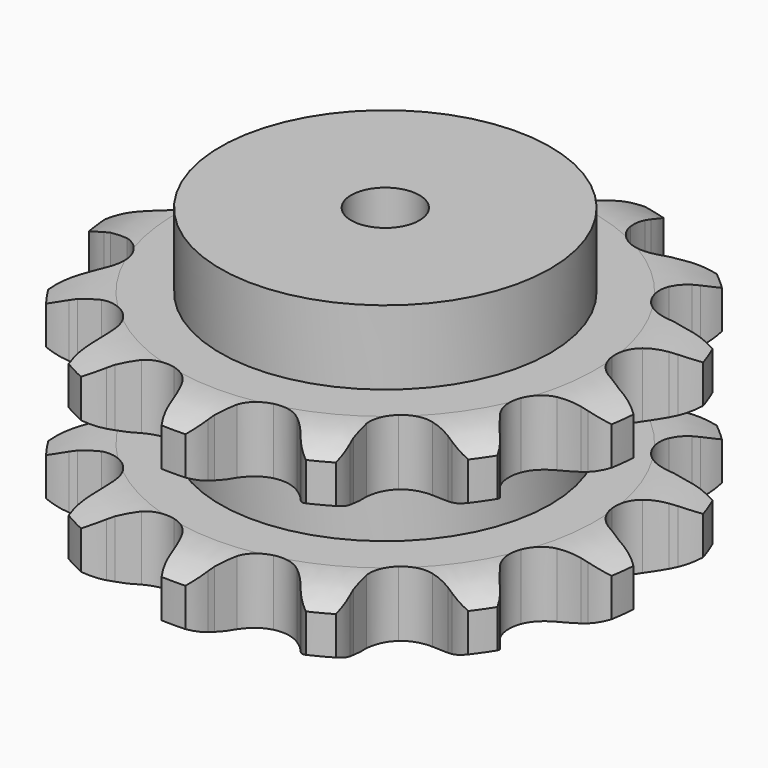
from build123d import *

# Parameters (mm, degrees)
PAD_DEPTH         = 87.4
SKETCH001_R       = 72.5
PAD001_DEPTH      = 120
SKETCH002_R       = 15
POCKET_DEPTH      = 0.001
POCKET_DEPTH_BACK = 120.001


with BuildPart() as part:
    # Sprocket → Pad (new body)
    with BuildSketch(Plane.XY):
        with BuildLine():
            ThreePointArc((-29.237321, 118.620475), (-22.418601, 113.86351), (-17.573083, 107.107432))
            Line((-17.573083, 107.107432), (-16.250815, 104.387116))
            ThreePointArc((-16.250815, 104.387116), (-14.021965, 100.422838), (-11.33645, 96.752514))
            ThreePointArc((-11.33645, 96.752514), (-6.264034, 92.81958), (0, 91.419844))
            ThreePointArc((0, 91.419844), (6.264034, 92.81958), (11.33645, 96.752514))
            ThreePointArc((11.33645, 96.752514), (14.021965, 100.422838), (16.250815, 104.387116))
            Line((16.250815, 104.387116), (17.573083, 107.107432))
            ThreePointArc((17.573083, 107.107432), (22.418601, 113.86351), (29.237321, 118.620475))
            ThreePointArc((29.237321, 118.620475), (33.064326, 111.239575), (34.215113, 103.00554))
            Line((34.215113, 103.00554), (34.12173, 99.982331))
            ThreePointArc((34.12173, 99.982331), (34.252987, 95.436339), (34.925207, 90.938407))
            ThreePointArc((34.925207, 90.938407), (37.588884, 85.098698), (42.48492, 80.948252))
            ThreePointArc((42.48492, 80.948252), (48.681936, 79.276615), (55.001063, 80.401785))
            Line((55.001063, 80.401785), (62.900494, 84.878071))
            ThreePointArc((62.900494, 84.878071), (64.100176, 85.799369), (65.335498, 86.672302))
            ThreePointArc((65.335498, 86.672302), (72.765697, 90.402688), (81.014045, 91.445953))
            ThreePointArc((81.014045, 91.445953), (80.972615, 83.131993), (78.165039, 75.30632))
            Line((78.165039, 75.30632), (76.677398, 72.672799))
            ThreePointArc((76.677398, 72.672799), (74.680992, 68.586525), (73.18592, 64.291408))
            ThreePointArc((73.18592, 64.291408), (72.83064, 57.88273), (75.237057, 51.932391))
            ThreePointArc((75.237057, 51.932391), (79.947394, 47.572333), (86.065596, 45.631977))
            Line((86.065596, 45.631977), (95.140427, 45.924482))
            ThreePointArc((95.140427, 45.924482), (96.630843, 46.182731), (98.130337, 46.381592))
            ThreePointArc((98.130337, 46.381592), (106.443049, 46.231699), (114.231428, 43.322266))
            ThreePointArc((114.231428, 43.322266), (110.331053, 35.979874), (104.208297, 30.35533))
            Line((104.208297, 30.35533), (101.667197, 28.714804))
            ThreePointArc((101.667197, 28.714804), (98.000482, 26.024364), (94.680621, 22.916021))
            ThreePointArc((94.680621, 22.916021), (91.387775, 17.406526), (90.753291, 11.019445))
            ThreePointArc((90.753291, 11.019445), (92.897867, 4.969802), (97.413537, 0.408432))
            Line((97.413537, 0.408432), (105.584836, -3.549852))
            ThreePointArc((105.584836, -3.549852), (107.024547, -4.013814), (108.444699, -4.534581))
            ThreePointArc((108.444699, -4.534581), (115.735581, -8.530415), (121.279767, -14.72603))
            ThreePointArc((121.279767, -14.72603), (114.413977, -19.414801), (106.378689, -21.5497))
            Line((106.378689, -21.5497), (103.366268, -21.821406))
            ThreePointArc((103.366268, -21.821406), (98.869242, -22.499664), (94.485133, -23.709149))
            ThreePointArc((94.485133, -23.709149), (89.009072, -27.057304), (85.479039, -32.417924))
            ThreePointArc((85.479039, -32.417924), (84.566558, -38.77125), (86.445211, -44.908679))
            Line((86.445211, -44.908679), (91.841031, -52.210957))
            ThreePointArc((91.841031, -52.210957), (92.900218, -53.290843), (93.915687, -54.411937))
            ThreePointArc((93.915687, -54.411937), (98.514486, -61.338314), (100.544374, -69.40077))
            ThreePointArc((100.544374, -69.40077), (92.286038, -70.361779), (84.179006, -68.517954))
            Line((84.179006, -68.517954), (81.385372, -67.358595))
            ThreePointArc((81.385372, -67.358595), (77.088251, -65.869291), (72.644239, -64.90284))
            ThreePointArc((72.644239, -64.90284), (66.239463, -65.322631), (60.62257, -68.428736))
            ThreePointArc((60.62257, -68.428736), (56.86207, -73.630276), (55.67333, -79.937753))
            Line((55.67333, -79.937753), (57.057553, -88.911162))
            ThreePointArc((57.057553, -88.911162), (57.493568, -90.359582), (57.871723, -91.824173))
            ThreePointArc((57.871723, -91.824173), (58.72491, -100.094344), (56.775475, -108.17663))
            ThreePointArc((56.775475, -108.17663), (49.016479, -105.189721), (42.694927, -99.78957))
            Line((42.694927, -99.78957), (40.760068, -97.464742))
            ThreePointArc((40.760068, -97.464742), (37.64727, -94.149057), (34.161426, -91.228072))
            ThreePointArc((34.161426, -91.228072), (28.295192, -88.623331), (21.878201, -88.76335))
            ThreePointArc((21.878201, -88.76335), (16.131167, -91.621493), (12.147359, -96.654052))
            Line((12.147359, -96.654052), (9.202876, -105.242891))
            ThreePointArc((9.202876, -105.242891), (8.915835, -106.72803), (8.570045, -108.200598))
            ThreePointArc((8.570045, -108.200598), (5.482164, -115.919966), (0, -122.170528))
            ThreePointArc((0, -122.170528), (-5.482164, -115.919966), (-8.570045, -108.200598))
            Line((-8.570045, -108.200598), (-9.202876, -105.242891))
            ThreePointArc((-9.202876, -105.242891), (-10.418246, -100.860409), (-12.147359, -96.654052))
            ThreePointArc((-12.147359, -96.654052), (-16.131167, -91.621493), (-21.878201, -88.76335))
            ThreePointArc((-21.878201, -88.76335), (-28.295192, -88.623331), (-34.161426, -91.228072))
            Line((-34.161426, -91.228072), (-40.760068, -97.464742))
            ThreePointArc((-40.760068, -97.464742), (-41.704409, -98.646372), (-42.694927, -99.78957))
            ThreePointArc((-42.694927, -99.78957), (-49.016479, -105.189721), (-56.775475, -108.17663))
            ThreePointArc((-56.775475, -108.17663), (-58.72491, -100.094344), (-57.871723, -91.824173))
            Line((-57.871723, -91.824173), (-57.057553, -88.911162))
            ThreePointArc((-57.057553, -88.911162), (-56.097068, -84.465856), (-55.67333, -79.937753))
            ThreePointArc((-55.67333, -79.937753), (-56.86207, -73.630276), (-60.62257, -68.428736))
            ThreePointArc((-60.62257, -68.428736), (-66.239463, -65.322631), (-72.644239, -64.90284))
            Line((-72.644239, -64.90284), (-81.385372, -67.358595))
            ThreePointArc((-81.385372, -67.358595), (-82.770675, -67.966019), (-84.179006, -68.517954))
            ThreePointArc((-84.179006, -68.517954), (-92.286038, -70.361779), (-100.544374, -69.40077))
            ThreePointArc((-100.544374, -69.40077), (-98.514486, -61.338314), (-93.915687, -54.411937))
            Line((-93.915687, -54.411937), (-91.841031, -52.210957))
            ThreePointArc((-91.841031, -52.210957), (-88.924728, -48.721194), (-86.445211, -44.908679))
            ThreePointArc((-86.445211, -44.908679), (-84.566558, -38.77125), (-85.479039, -32.417924))
            ThreePointArc((-85.479039, -32.417924), (-89.009072, -27.057304), (-94.485133, -23.709149))
            Line((-94.485133, -23.709149), (-103.366268, -21.821406))
            ThreePointArc((-103.366268, -21.821406), (-104.875177, -21.715471), (-106.378689, -21.5497))
            ThreePointArc((-106.378689, -21.5497), (-114.413977, -19.414801), (-121.279767, -14.72603))
            ThreePointArc((-121.279767, -14.72603), (-115.735581, -8.530415), (-108.444699, -4.534581))
            Line((-108.444699, -4.534581), (-105.584836, -3.549852))
            ThreePointArc((-105.584836, -3.549852), (-101.380804, -1.815093), (-97.413537, 0.408432))
            ThreePointArc((-97.413537, 0.408432), (-92.897867, 4.969802), (-90.753291, 11.019445))
            ThreePointArc((-90.753291, 11.019445), (-91.387775, 17.406526), (-94.680621, 22.916021))
            Line((-94.680621, 22.916021), (-101.667197, 28.714804))
            ThreePointArc((-101.667197, 28.714804), (-102.95404, 29.50983), (-104.208297, 30.35533))
            ThreePointArc((-104.208297, 30.35533), (-110.331053, 35.979874), (-114.231428, 43.322266))
            ThreePointArc((-114.231428, 43.322266), (-106.443049, 46.231699), (-98.130337, 46.381592))
            Line((-98.130337, 46.381592), (-95.140427, 45.924482))
            ThreePointArc((-95.140427, 45.924482), (-90.61176, 45.506823), (-86.065596, 45.631977))
            ThreePointArc((-86.065596, 45.631977), (-79.947394, 47.572333), (-75.237057, 51.932391))
            ThreePointArc((-75.237057, 51.932391), (-72.83064, 57.88273), (-73.18592, 64.291408))
            Line((-73.18592, 64.291408), (-76.677398, 72.672799))
            ThreePointArc((-76.677398, 72.672799), (-77.447373, 73.974785), (-78.165039, 75.30632))
            ThreePointArc((-78.165039, 75.30632), (-80.972615, 83.131993), (-81.014045, 91.445953))
            ThreePointArc((-81.014045, 91.445953), (-72.765697, 90.402688), (-65.335498, 86.672302))
            Line((-65.335498, 86.672302), (-62.900494, 84.878071))
            ThreePointArc((-62.900494, 84.878071), (-59.084653, 82.403675), (-55.001063, 80.401785))
            ThreePointArc((-55.001063, 80.401785), (-48.681936, 79.276615), (-42.48492, 80.948252))
            ThreePointArc((-42.48492, 80.948252), (-37.588884, 85.098698), (-34.925207, 90.938407))
            Line((-34.925207, 90.938407), (-34.12173, 99.982331))
            ThreePointArc((-34.12173, 99.982331), (-34.198446, 101.493008), (-34.215113, 103.00554))
            ThreePointArc((-34.215113, 103.00554), (-33.064326, 111.239575), (-29.237321, 118.620475))
        make_face()
    extrude(amount=PAD_DEPTH)

    # Sketch → Groove (revolve, cut)
    with BuildSketch(Plane.XZ):
        with BuildLine():
            ThreePointArc((92.4, 0), (104.769317, 1.522732), (116.4, 6))
            Line((116.4, 6), (116.4, 22.8))
            ThreePointArc((116.4, 22.8), (104.769317, 27.277268), (92.4, 28.8))
            Line((72.5, 28.8), (92.4, 28.8))
            Line((72.5, 58.6), (72.5, 28.8))
            Line((92.4, 58.6), (72.5, 58.6))
            ThreePointArc((92.4, 58.6), (104.769317, 60.122732), (116.4, 64.6))
            Line((116.4, 64.6), (116.4, 81.4))
            ThreePointArc((116.4, 81.4), (104.769317, 85.877268), (92.4, 87.4))
            Line((92.4, 87.4), (126.4, 87.4))
            Line((126.4, 87.4), (126.4, 0))
            Line((92.4, 0), (126.4, 0))
        make_face()
    revolve(axis=Axis((0, 0, 0), (0, 0, 1)), mode=Mode.SUBTRACT)

    # Sketch001 → Pad001 (join)
    with BuildSketch(Plane.XY):
        Circle(SKETCH001_R)
    extrude(amount=PAD001_DEPTH)

    # Sketch002 → Pocket (cut, two sides)
    with BuildSketch(Plane.XY) as pocket_sk:
        Circle(SKETCH002_R)
    extrude(amount=-POCKET_DEPTH, mode=Mode.SUBTRACT)
    extrude(pocket_sk.sketch, amount=POCKET_DEPTH_BACK, mode=Mode.SUBTRACT)


solid = part.part
